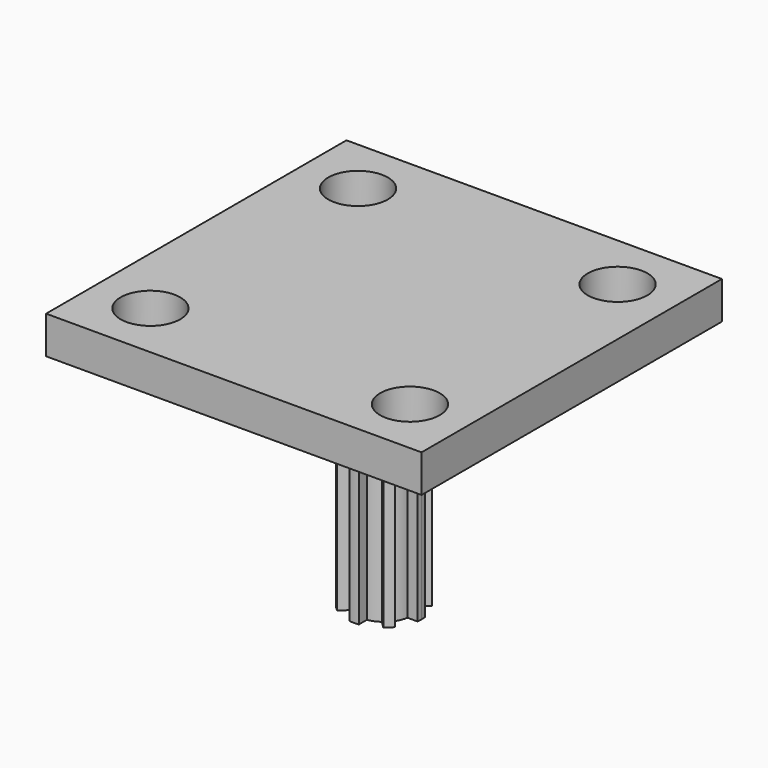
from build123d import *

# Parameters (mm, degrees)
F0_W     = 40
F0_H     = 40
F0_R     = 3.175
F1_DEPTH = 4
F3_DEPTH = 25


with BuildPart() as f1:
    # F0 (on Top) → F1 (new body)
    with BuildSketch(Plane.XY):
        Rectangle(F0_W, F0_H)
        with Locations((-13.825, -13.825)):
            Circle(F0_R, mode=Mode.SUBTRACT)
        with Locations((13.825, -13.825)):
            Circle(F0_R, mode=Mode.SUBTRACT)
        with Locations((-13.825, 13.825)):
            Circle(F0_R, mode=Mode.SUBTRACT)
        with Locations((13.825, 13.825)):
            Circle(F0_R, mode=Mode.SUBTRACT)
    extrude(amount=F1_DEPTH)

    # F2 (on face) → F3 (join)
    with BuildSketch(Plane(origin=(0, 0, 0), x_dir=(1, 0, 0), z_dir=(0, 0, -1))):
        with BuildLine():
            ThreePointArc((1.702231, 2.409338), (2.085965, 2.085965), (2.409338, 1.702231))
            Line((2.409338, 1.702231), (3.159796, 2.45269))
            ThreePointArc((3.159796, 2.45269), (2.828427, 2.828427), (2.45269, 3.159796))
            Line((2.45269, 3.159796), (1.702231, 2.409338))
        make_face()
        with BuildLine():
            ThreePointArc((-0.5, 2.907318), (0, 2.95), (0.5, 2.907318))
            Line((0.5, 2.907318), (0.5, 3.968627))
            ThreePointArc((0.5, 3.968627), (0, 4), (-0.5, 3.968627))
            Line((-0.5, 3.968627), (-0.5, 2.907318))
        make_face()
        with BuildLine():
            ThreePointArc((-2.409338, 1.702231), (-2.085965, 2.085965), (-1.702231, 2.409338))
            Line((-1.702231, 2.409338), (-2.45269, 3.159796))
            ThreePointArc((-2.45269, 3.159796), (-2.828427, 2.828427), (-3.159796, 2.45269))
            Line((-3.159796, 2.45269), (-2.409338, 1.702231))
        make_face()
        with BuildLine():
            ThreePointArc((-2.907318, -0.5), (-2.95, 0), (-2.907318, 0.5))
            Line((-2.907318, 0.5), (-3.968627, 0.5))
            ThreePointArc((-3.968627, 0.5), (-4, 0), (-3.968627, -0.5))
            Line((-3.968627, -0.5), (-2.907318, -0.5))
        make_face()
        with BuildLine():
            Line((-2.45269, -3.159796), (-1.702231, -2.409338))
            ThreePointArc((-1.702231, -2.409338), (-2.085965, -2.085965), (-2.409338, -1.702231))
            Line((-2.409338, -1.702231), (-3.159796, -2.45269))
            ThreePointArc((-3.159796, -2.45269), (-2.828427, -2.828427), (-2.45269, -3.159796))
        make_face()
        with BuildLine():
            Line((0.5, -3.968627), (0.5, -2.907318))
            ThreePointArc((0.5, -2.907318), (0, -2.95), (-0.5, -2.907318))
            Line((-0.5, -2.907318), (-0.5, -3.968627))
            ThreePointArc((-0.5, -3.968627), (0, -4), (0.5, -3.968627))
        make_face()
        with BuildLine():
            Line((3.159796, -2.45269), (2.409338, -1.702231))
            ThreePointArc((2.409338, -1.702231), (2.085965, -2.085965), (1.702231, -2.409338))
            Line((1.702231, -2.409338), (2.45269, -3.159796))
            ThreePointArc((2.45269, -3.159796), (2.828427, -2.828427), (3.159796, -2.45269))
        make_face()
        with BuildLine():
            ThreePointArc((2.907318, 0.5), (2.93931, 0.250909), (2.95, 0))
            ThreePointArc((2.95, 0), (2.93931, -0.250909), (2.907318, -0.5))
            Line((2.907318, -0.5), (3.968627, -0.5))
            ThreePointArc((3.968627, -0.5), (3.992149, -0.250492), (4, 0))
            ThreePointArc((4, 0), (3.992149, 0.250492), (3.968627, 0.5))
            Line((3.968627, 0.5), (2.907318, 0.5))
        make_face()
        with BuildLine():
            ThreePointArc((2.907318, -0.5), (2.93931, -0.250909), (2.95, 0))
            ThreePointArc((2.95, 0), (2.93931, 0.250909), (2.907318, 0.5))
            ThreePointArc((2.907318, 0.5), (2.725445, 1.128916), (2.409338, 1.702231))
            ThreePointArc((2.409338, 1.702231), (2.085965, 2.085965), (1.702231, 2.409338))
            ThreePointArc((1.702231, 2.409338), (1.128916, 2.725445), (0.5, 2.907318))
            ThreePointArc((0.5, 2.907318), (0, 2.95), (-0.5, 2.907318))
            ThreePointArc((-0.5, 2.907318), (-1.128916, 2.725445), (-1.702231, 2.409338))
            ThreePointArc((-1.702231, 2.409338), (-2.085965, 2.085965), (-2.409338, 1.702231))
            ThreePointArc((-2.409338, 1.702231), (-2.725445, 1.128916), (-2.907318, 0.5))
            ThreePointArc((-2.907318, 0.5), (-2.95, 0), (-2.907318, -0.5))
            ThreePointArc((-2.907318, -0.5), (-2.725445, -1.128916), (-2.409338, -1.702231))
            ThreePointArc((-2.409338, -1.702231), (-2.085965, -2.085965), (-1.702231, -2.409338))
            ThreePointArc((-1.702231, -2.409338), (-1.128916, -2.725445), (-0.5, -2.907318))
            ThreePointArc((-0.5, -2.907318), (0, -2.95), (0.5, -2.907318))
            ThreePointArc((0.5, -2.907318), (1.128916, -2.725445), (1.702231, -2.409338))
            ThreePointArc((1.702231, -2.409338), (2.085965, -2.085965), (2.409338, -1.702231))
            ThreePointArc((2.409338, -1.702231), (2.725445, -1.128916), (2.907318, -0.5))
        make_face()
    extrude(amount=F3_DEPTH)


solid = f1.part
